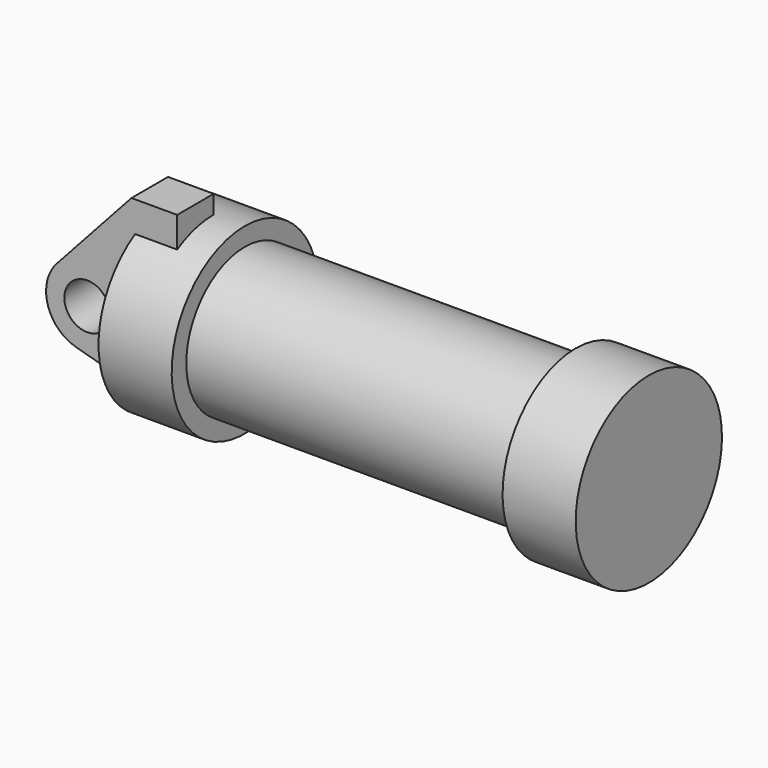
from build123d import *

# Parameters (mm, degrees)
F0_W     = 5.842
F0_H     = 12.7
F0_R     = 3.175
F2_DEPTH = 6.35


with BuildPart() as f1:
    # F0 (on Front) → F1 (revolve)
    with BuildSketch(Plane.XZ):
        Polygon((5.842, 12.7), (5.842, 0), (66.294, 0), (66.294, 12.7), (56.134, 12.7), (56.134, 10.16), (10.16, 10.16), (10.16, 12.7), align=None)
        with Locations((2.921, 6.35)):
            Rectangle(F0_W, F0_H)
    revolve(axis=Axis((33.147, 0, 0), (-1, 0, 0)))

    # F0 (on Front) → F2 (join)
    with BuildSketch(Plane.XZ):
        with BuildLine():
            Line((-0.9398, 0), (0, 0))
            Line((0, 0), (0, 12.7))
            Line((0, 12.7), (5.842, 12.7))
            Line((5.842, 12.7), (5.842, 15.24))
            Line((5.842, 15.24), (-0.508, 15.24))
            Line((-0.508, 15.24), (-10.88063, 3.847543))
            ThreePointArc((-10.88063, 3.847543), (-4.591961, 5.329721), (-0.9398, 0))
        make_face()
        with BuildLine():
            Line((5.842, 0), (0, 0))
            Line((0, 0), (-0.9398, 0))
            ThreePointArc((-0.9398, 0), (-3.195791, -4.549339), (-8.182663, -5.506983))
            Line((-8.182663, -5.506983), (5.842, -9.398))
            Line((5.842, -9.398), (5.842, 0))
        make_face()
        with BuildLine():
            ThreePointArc((-8.182663, -5.506983), (-3.195791, -4.549339), (-0.9398, 0))
            ThreePointArc((-0.9398, 0), (-4.591961, 5.329721), (-10.88063, 3.847543))
            ThreePointArc((-10.88063, 3.847543), (-12.145978, -1.583727), (-8.182663, -5.506983))
        make_face()
        with Locations((-6.6548, 0)):
            Circle(F0_R, mode=Mode.SUBTRACT)
        with Locations((2.921, 6.35)):
            Rectangle(F0_W, F0_H)
    extrude(amount=F2_DEPTH)


solid = f1.part
